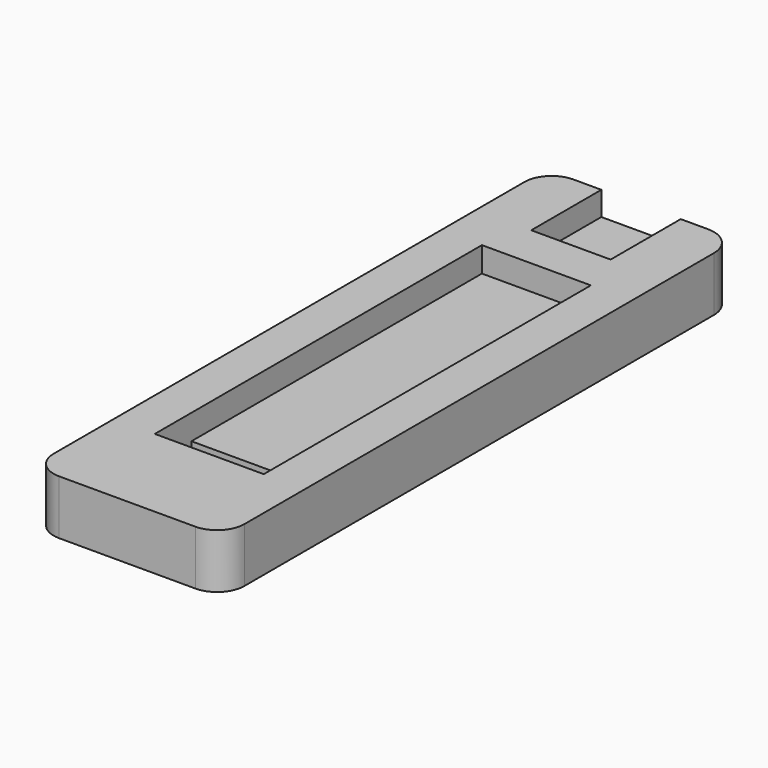
from build123d import *

# Parameters (mm, degrees)
F1_DEPTH = 12.7
F0_R     = 1.999996
F2_DEPTH = 0.254
F0_W     = 25.4
F0_H     = 84.6341010183
F3_DEPTH = 6.858
F0_W_2   = 18.49998408
F0_H_2   = 20.4291737289
F4_DEPTH = 7.112


with BuildPart() as f1:
    # F0 (on Top) → F1 (new body)
    with BuildSketch(Plane.XY):
        with BuildLine():
            Line((-17.4480918804, 91.1680103695), (-23.9541744344, 91.1680103695))
            ThreePointArc((-23.9541744344, 91.1680103695), (-28.4443024949, 89.3081384301), (-30.3041744344, 84.8180103695))
            Line((-30.3041744344, 84.8180103695), (-30.3041744344, -52.3419896305))
            ThreePointArc((-30.3041744344, -52.3419896305), (-28.4443024949, -56.832117691), (-23.9541744344, -58.6919896305))
            Line((-23.9541744344, -58.6919896305), (7.7958255656, -58.6919896305))
            ThreePointArc((7.7958255656, -58.6919896305), (12.2859536261, -56.832117691), (14.1458255656, -52.3419896305))
            Line((14.1458255656, -52.3419896305), (14.1458255656, 84.4687083243))
            ThreePointArc((14.1458255656, 84.4687083243), (12.1836454258, 89.2058302297), (7.4465235204, 91.1680103695))
            Line((7.4465235204, 91.1680103695), (1.0518921996, 91.1680103695))
            Line((1.0518921996, 91.1680103695), (1.0518921996, 70.7388366406))
            Line((1.0518921996, 70.7388366406), (-17.4480918804, 70.7388366406))
            Line((-17.4480918804, 70.7388366406), (-17.4480918804, 91.1680103695))
        make_face()
        Polygon((4.5991841048, -34.7585864365), (-20.8008158952, -34.7585864365), (-20.8008158952, -24.0799579769), (-20.8008158952, 60.5541430414), (4.5991841048, 60.5541430414), (4.5991841048, -24.0799579769), align=None, mode=Mode.SUBTRACT)
    extrude(amount=F1_DEPTH)

    # F0 (on Top) → F3 (join)
    with BuildSketch(Plane.XY):
        with Locations((-8.1008158952, 18.2370925322)):
            Rectangle(F0_W, F0_H)
    extrude(amount=F3_DEPTH)


with BuildPart() as f2:
    # F0 (on Top) → F2 (new body)
    with BuildSketch(Plane.XY):
        with Locations((-4.9481038004, 85.4388326406)):
            Circle(F0_R)
    extrude(amount=F2_DEPTH)


with BuildPart() as f2b:
    # F0 (on Top) → F2, piece 2 (new body)
    with BuildSketch(Plane.XY):
        with Locations((-11.4480958804, 85.4388326406)):
            Circle(F0_R)
    extrude(amount=F2_DEPTH)


with BuildPart() as f4:
    # F0 (on Top) → F4 (new body)
    with BuildSketch(Plane.XY):
        with Locations((-8.1980998404, 80.9534235051)):
            Rectangle(F0_W_2, F0_H_2)
        with Locations((-11.4480958804, 85.4388326406)):
            Circle(F0_R, mode=Mode.SUBTRACT)
        with Locations((-4.9481038004, 85.4388326406)):
            Circle(F0_R, mode=Mode.SUBTRACT)
        with Locations((-11.4480958804, 85.4388326406)):
            Circle(F0_R)
        with Locations((-4.9481038004, 85.4388326406)):
            Circle(F0_R)
    extrude(amount=F4_DEPTH)


solid = Compound([f1.part, f2.part, f2b.part, f4.part])
